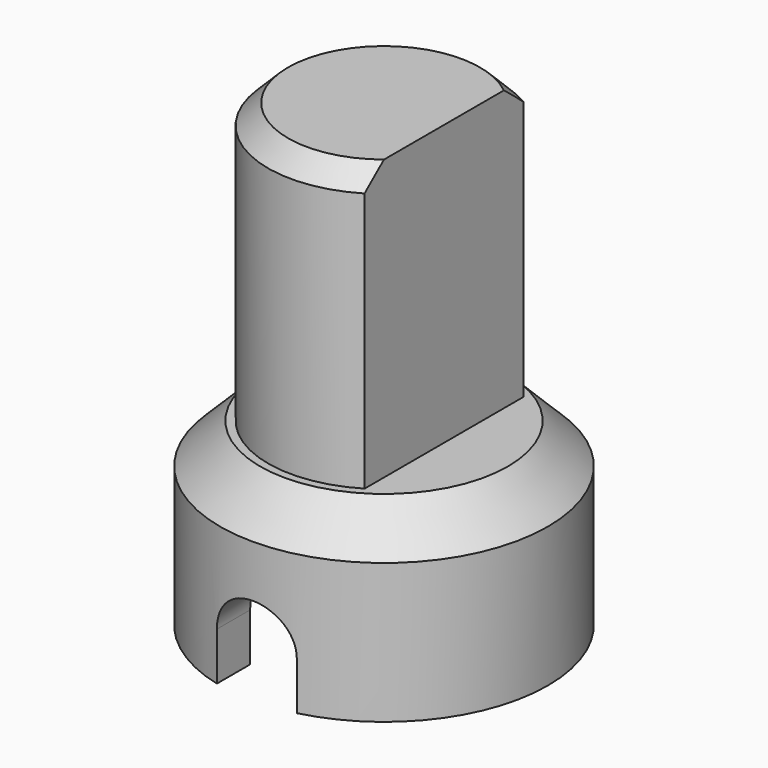
from build123d import *

# Parameters (mm, degrees)
F0_R     = 4.1
F1_DEPTH = 4.5
F2_D     = 6.2
F2_DEPTH = 2.2
F2_TIP   = 1.862667919
F4_DEPTH = 7
F5_SIZE  = 0.5
F6_SIZE  = 1
F8_DEPTH = 25


with BuildPart() as f1:
    # F0 (on Top) → F1 (new body)
    with BuildSketch(Plane.XY):
        Circle(F0_R)
    extrude(amount=F1_DEPTH)

    # F2
    with Locations(Plane(origin=(0, 0, 0), x_dir=(1, 0, 0), z_dir=(0, 0, -1))):
        with Locations((0, 0)):
            Hole(F2_D / 2, depth=F2_DEPTH)
            with Locations((0, 0, -(F2_DEPTH + F2_TIP / 2))):  # 118° drill point
                Cone(0, F2_D / 2, F2_TIP, mode=Mode.SUBTRACT)

    # F3 (on face) → F4 (join)
    with BuildSketch(Plane.XY.offset(4.5)):
        with BuildLine():
            Line((1.5, -2.4819347292), (1.5, 2.4819347292))
            ThreePointArc((1.5, 2.4819347292), (-2.9, 0), (1.5, -2.4819347292))
        make_face()
    extrude(amount=F4_DEPTH)

    # F5
    f5_edges = [f1.edges().sort_by_distance(p)[0] for p in [
        (-2.9, 0, 11.5),
    ]]
    chamfer(f5_edges, length=F5_SIZE)

    # F6
    f6_edges = [f1.edges().sort_by_distance(p)[0] for p in [
        (-4.1, 0, 4.5),
    ]]
    chamfer(f6_edges, length=F6_SIZE)

    # F7 (on Front) → F8 (cut, symmetric)
    with BuildSketch(Plane.XZ):
        with BuildLine():
            Line((-1, 1.2), (-1, 0))
            Line((-1, 0), (1, 0))
            Line((1, 0), (1, 1.2))
            ThreePointArc((1, 1.2), (0, 2.2), (-1, 1.2))
        make_face()
    extrude(amount=F8_DEPTH, both=True, mode=Mode.SUBTRACT)


solid = f1.part
